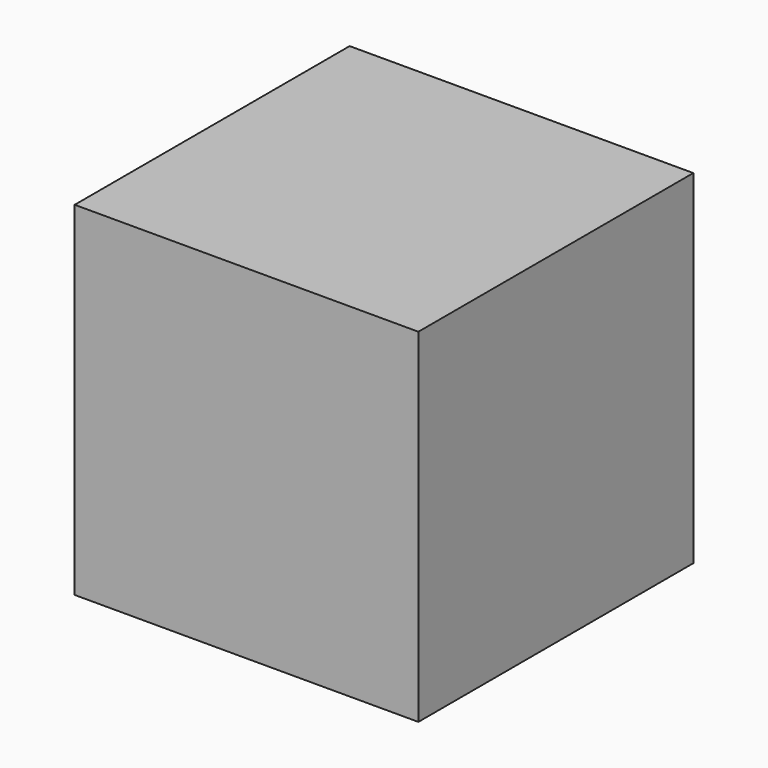
from build123d import *

# Parameters (mm, degrees)
F0_W     = 20
F0_H     = 20
F1_DEPTH = 19.9898
F2_W     = 5
F2_H     = 5
F3_DEPTH = 3


with BuildPart() as f1:
    # F0 (on Top) → F1 (new body)
    with BuildSketch(Plane.XY):
        with Locations((-10, 7.216886)):
            Rectangle(F0_W, F0_H)
    extrude(amount=F1_DEPTH)

    # F2 (on face) → F3 (join)
    with BuildSketch(Plane.XY.offset(19.9898)):
        with Locations((-15.802001, 2.5)):
            Rectangle(F2_W, F2_H)
        with Locations((-15.802001, 2.5)):
            Rectangle(F2_W, F2_H)
        with Locations((-4.197999, 2.5)):
            Rectangle(F2_W, F2_H)
        with Locations((-4.197999, 2.5)):
            Rectangle(F2_W, F2_H)
    extrude(amount=-F3_DEPTH)


solid = f1.part
